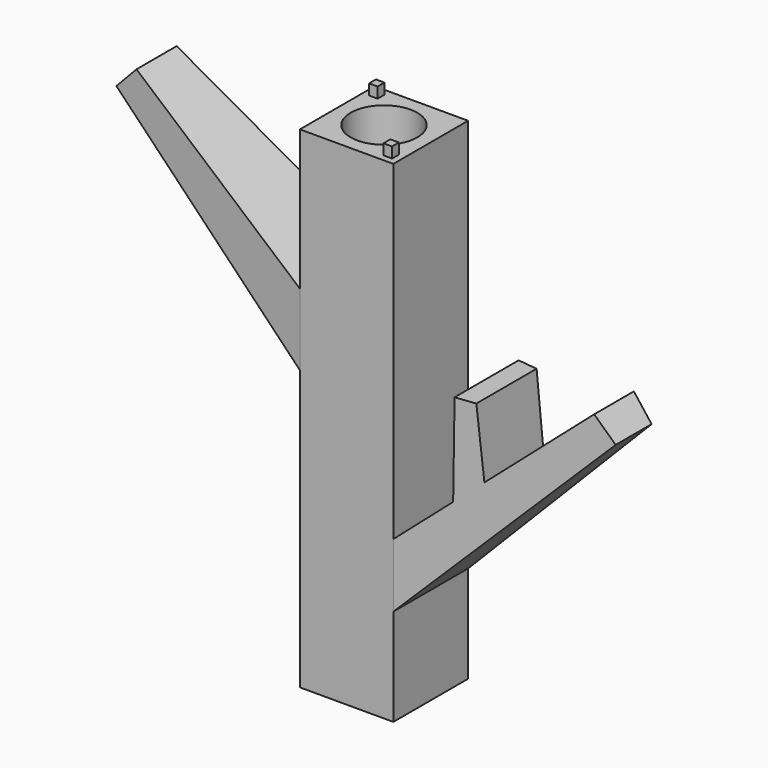
from build123d import *

# Parameters (mm, degrees)
F1_DEPTH = 11.1125
F2_R     = 7.9375
F3_DEPTH = 133.096
F5_DEPTH = 135.636
F6_W     = 2.54
F6_H     = 2.54
F7_DEPTH = 3.81
F8_W     = 2.032
F8_H     = 2.032
F9_DEPTH = 2.54


with BuildPart() as f1:
    # F0 (on Front) → F1 (new body, symmetric)
    with BuildSketch(Plane.XZ):
        Polygon((-11.1125, -58.42), (11.1125, -58.42), (11.1125, -35.3219639331), (0, -46.4344639331), (0, -29.8688001931), (11.1125, -20.1350393977), (11.1125, 58.42), (-11.1125, 58.42), (-11.1125, 25.0589007236), (0, 17.3320677131), (0, -1.5664904641), (-11.1125, 7.9825179157), align=None)
        Polygon((0, -46.4344639331), (11.1125, -35.3219639331), (11.1125, -20.1350393977), (0, -29.8688001931), align=None)
        Polygon((11.1125, -20.1350393977), (11.1125, -35.3219639331), (59.3725, 12.9380360669), (54.7055751085, 18.0493984371), (30.8782853477, -2.8216151901), (24.0951018289, -8.763202214), align=None)
        Polygon((-59.3725, 49.452497165), (-11.1125, 7.9825179157), (-11.1125, 25.0589007236), (-54.0828680275, 54.9374031437), align=None)
        Polygon((-11.1125, 25.0589007236), (-11.1125, 7.9825179157), (0, -1.5664904641), (0, 17.3320677131), align=None)
        Polygon((24.4025364518, 13.2276853547), (24.0951018289, -8.763202214), (30.8782853477, -2.8216151901), (29.1275199493, 13.2276853547), align=None)
    extrude(amount=F1_DEPTH, both=True)

    # F2 (on face) → F3 (cut)
    with BuildSketch(Plane.XY.offset(58.42)):
        Circle(F2_R)
    extrude(amount=-F3_DEPTH, mode=Mode.SUBTRACT)

    # F4 (on face) → F5 (cut)
    with BuildSketch(Plane.XY.offset(58.42)):
        Polygon((-61.5530486068, -11.1125), (-11.1125, -11.1125), (-61.5530486068, -5.08), align=None)
        Polygon((-61.5530486068, 5.08), (-11.1125, 11.1125), (-61.5530486068, 11.1125), align=None)
        Polygon((61.5530486068, -5.08), (11.1125, -11.1125), (61.5530486068, -11.1125), align=None)
        Polygon((61.5530486068, 11.1125), (11.1125, 11.1125), (61.5530486068, 5.08), align=None)
    extrude(amount=-F5_DEPTH, mode=Mode.SUBTRACT)

    # F6 (on face) → F7 (cut)
    with BuildSketch(Plane(origin=(0, 0, -58.42), x_dir=(1, 0, 0), z_dir=(0, 0, -1))):
        with Locations((8.5725, 8.5725)):
            Rectangle(F6_W, F6_H)
        with Locations((-8.5725, -8.5725)):
            Rectangle(F6_W, F6_H)
    extrude(amount=-F7_DEPTH, mode=Mode.SUBTRACT)

    # F8 (on face) → F9 (join)
    with BuildSketch(Plane.XY.offset(58.42)):
        with Locations((8.5725, -8.5725)):
            Rectangle(F8_W, F8_H)
        with Locations((-8.5725, 8.5725)):
            Rectangle(F8_W, F8_H)
    extrude(amount=F9_DEPTH)


solid = f1.part
